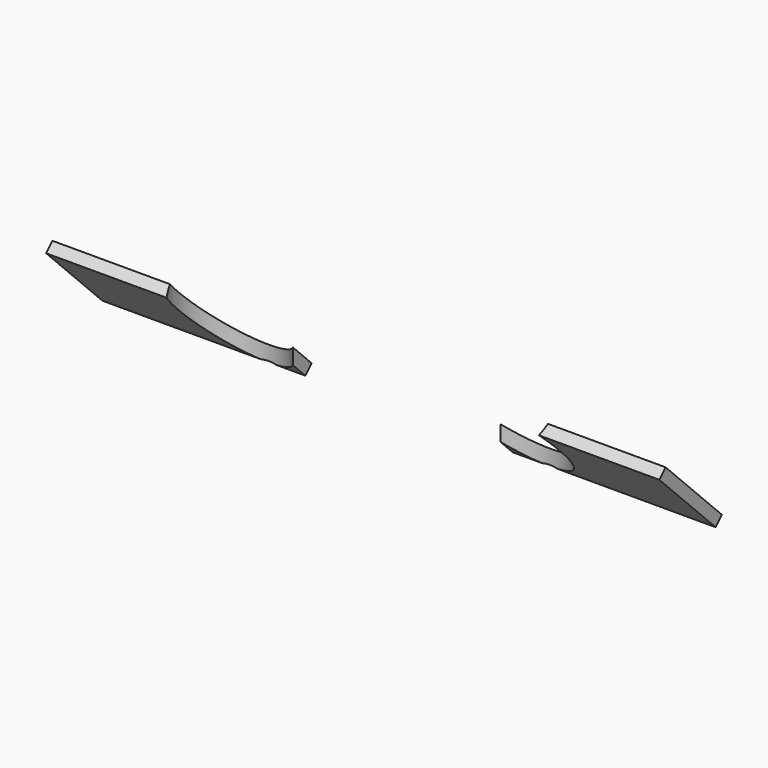
from build123d import *

# Parameters (mm, degrees)
F4_W     = 10
F4_H     = 8
F5_DEPTH = 3
F3_R     = 13.6
F6_DEPTH = 26


with BuildPart() as f5:
    # F4 (on face) → F5 (new body)
    with BuildSketch(Plane(origin=(0, -6.25, -6.25), x_dir=(-1, 0, 0), z_dir=(0, 0.7071067812, 0.7071067812))):
        Polygon((38.1, -0.8388347648), (38.1, -8.8388347648), (28.1, -8.8388347648), (28.1, -27.8388347648), (83.1, -27.8388347648), (83.1, -0.8388347648), align=None)
        with Locations((33.1, -4.8388347648)):
            Rectangle(F4_W, F4_H)
    extrude(amount=F5_DEPTH)


with BuildPart() as f5b:
    # F4 (on face) → F5, piece 2 (new body)
    with BuildSketch(Plane(origin=(0, -6.25, -6.25), x_dir=(-1, 0, 0), z_dir=(0, 0.7071067812, 0.7071067812))):
        Polygon((-28.1, -27.8388347648), (-28.1, -8.8388347648), (-38.1, -8.8388347648), (-38.1, -0.8388347648), (-83.1, -0.8388347648), (-83.1, -27.8388347648), align=None)
        with Locations((-33.1, -4.8388347648)):
            Rectangle(F4_W, F4_H)
    extrude(amount=F5_DEPTH)


with BuildPart() as f6_tool:
    # F3 (on Top) → F6 (new body)
    with BuildSketch(Plane.XY):
        with Locations((-38.1, 0)):
            Circle(F3_R)
        with BuildLine():
            ThreePointArc((51.7, 0), (38.1, 13.6), (24.5, 0))
            ThreePointArc((24.5, 0), (38.1, -13.6), (51.7, 0))
        make_face()
    extrude(amount=-F6_DEPTH)


with BuildPart() as f5_1:
    add(f5.part)

    # F6: cut by f6_tool
    add(f6_tool.part, mode=Mode.SUBTRACT)


with BuildPart() as f5b_1:
    add(f5b.part)

    # F6: cut by f6_tool
    add(f6_tool.part, mode=Mode.SUBTRACT)


solid = Compound([f5_1.part, f5b_1.part])
